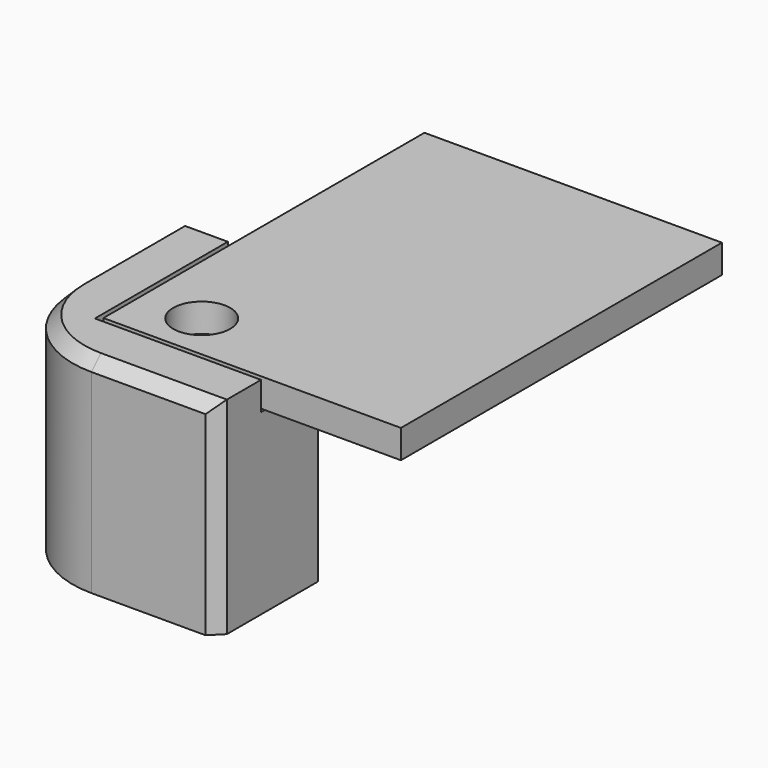
from build123d import *

# Parameters (mm, degrees)
F0_W     = 15.9162582783
F0_H     = 21.4676701395
F0_R     = 1.524
F1_DEPTH = 1.524
F2_W     = 11.811
F2_H     = 11.811
F3_DEPTH = 9.525
F5_DEPTH = 1.524
F7_D     = 2.4384
F8_R     = 5.08
F9_SIZE  = 5.08
F10_SIZE = 0.635
F11_SIZE = 0.635


with BuildPart() as f1:
    # F0 (on Top) → F1 (new body)
    with BuildSketch(Plane.XY):
        with Locations((7.9581291392, 10.7338350698)):
            Rectangle(F0_W, F0_H)
        with Locations((3.2258, 2.54)):
            Circle(F0_R, mode=Mode.SUBTRACT)
    extrude(amount=F1_DEPTH)


with BuildPart() as f3:
    # F2 (on face) → F3 (new body)
    with BuildSketch(Plane(origin=(0, 0, 0), x_dir=(1, 0, 0), z_dir=(0, 0, -1))):
        with Locations((2.7305, -2.7305)):
            Rectangle(F2_W, F2_H)
    extrude(amount=F3_DEPTH)

    # F4 (on face) → F5 (join)
    with BuildSketch(Plane.XY):
        Polygon((-0.254, 8.636), (-3.175, 8.636), (-3.175, -3.175), (8.636, -3.175), (8.636, -0.254), (-0.254, -0.254), align=None)
    extrude(amount=F5_DEPTH)

    # F7 (through all)
    with Locations(Plane.XY):
        with Locations((3.2258, 2.54)):
            Hole(F7_D / 2)

    # F8
    f8_edges = [f3.edges().sort_by_distance(p)[0] for p in [
        (-3.175, -3.175, -4.0005),
    ]]
    fillet(f8_edges, radius=F8_R)

    # F9
    f9_edges = [f3.edges().sort_by_distance(p)[0] for p in [
        (8.636, 8.636, -4.7625),
    ]]
    chamfer(f9_edges, length=F9_SIZE)

    # F10
    f10_edges = [f3.edges().sort_by_distance(p)[0] for p in [
        (8.636, -3.175, -4.0005),
        (-3.175, 8.636, -4.0005),
    ]]
    chamfer(f10_edges, length=F10_SIZE)

    # F11
    f11_edges = [f3.edges().sort_by_distance(p)[0] for p in [
        (4.953, -3.175, 1.524),
        (-1.687102, -1.687102, 1.524),
        (-3.175, 4.953, 1.524),
    ]]
    chamfer(f11_edges, length=F11_SIZE)


solid = Compound([f1.part, f3.part])
